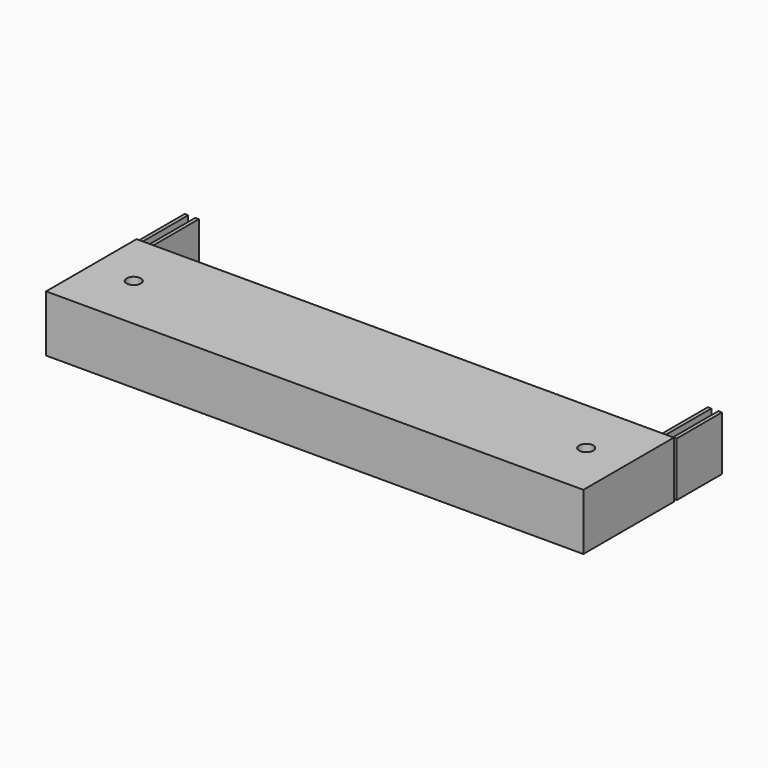
from build123d import *

# Parameters (mm, degrees)
F0_W     = 120.65
F0_H     = 25.4
F0_R     = 1.5875
F1_DEPTH = 12.7
F0_W_2   = 0.79375
F0_H_2   = 12.7
F2_DEPTH = 12.192


with BuildPart() as f1:
    # F0 (on Top) → F1 (new body)
    with BuildSketch(Plane.XY):
        Rectangle(F0_W, F0_H)
        with Locations((-50.8, 0)):
            Circle(F0_R, mode=Mode.SUBTRACT)
        with Locations((50.8, 0)):
            Circle(F0_R, mode=Mode.SUBTRACT)
    extrude(amount=F1_DEPTH)


with BuildPart() as f2:
    # F0 (on Top) → F2 (new body)
    with BuildSketch(Plane.XY):
        with Locations((57.546875, 19.84375)):
            Rectangle(F0_W_2, F0_H_2)
        with Locations((59.928125, 19.84375)):
            Rectangle(F0_W_2, F0_H_2)
        with Locations((-59.928125, 19.84375)):
            Rectangle(F0_W_2, F0_H_2)
        with Locations((-57.546875, 19.84375)):
            Rectangle(F0_W_2, F0_H_2)
    extrude(amount=F2_DEPTH)


solid = Compound([f1.part, f2.part])
